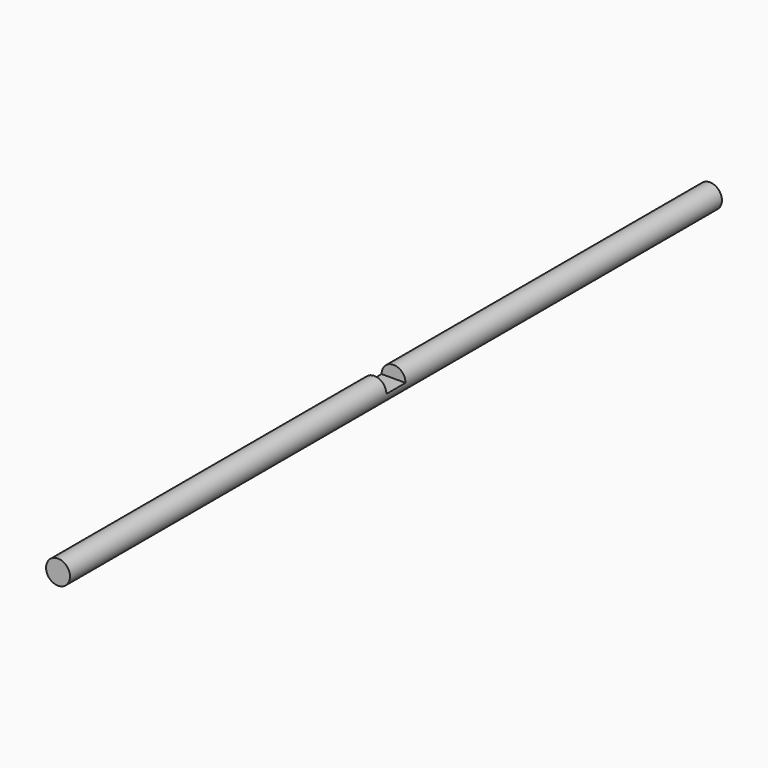
from build123d import *

# Parameters (mm, degrees)
F0_R     = 6.35
F1_DEPTH = 215.9
F2_W     = 12.7
F2_H     = 12.7
F3_DEPTH = 12.7


with BuildPart() as f1:
    # F0 (on Front) → F1 (new body, symmetric)
    with BuildSketch(Plane.XZ):
        Circle(F0_R)
    extrude(amount=F1_DEPTH, both=True)

    # F2 (on Right) → F3 (cut, symmetric)
    with BuildSketch(Plane.YZ):
        with Locations((0, 6.35)):
            Rectangle(F2_W, F2_H)
    extrude(amount=F3_DEPTH, both=True, mode=Mode.SUBTRACT)


solid = f1.part
